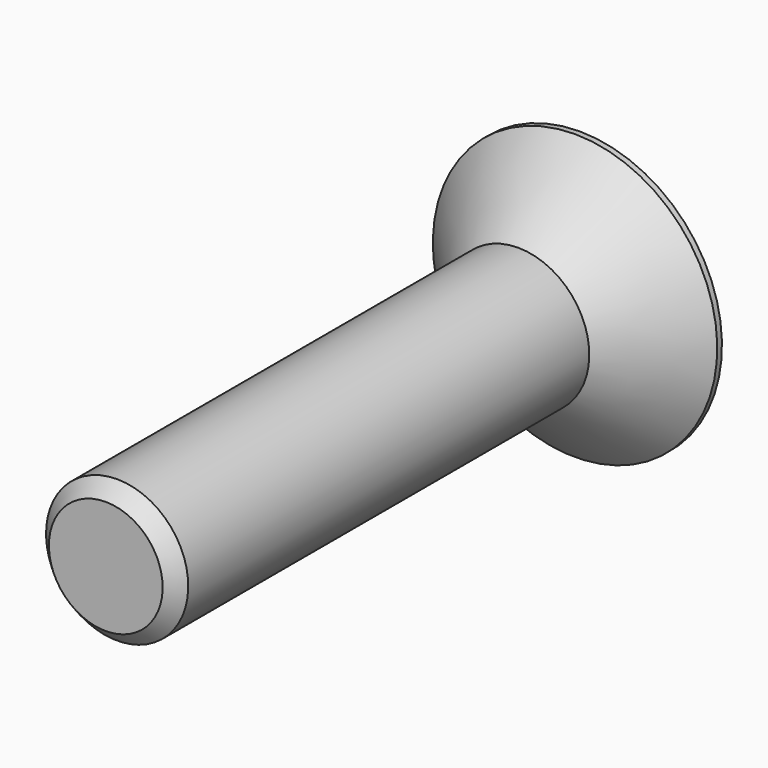
from build123d import *

# Parameters (mm, degrees)
F4_DEPTH = 4.6


with BuildPart() as f2:
    # F1 (on Right) → F2 (revolve)
    with BuildSketch(Plane.YZ):
        Polygon((-50, 0), (0, 0), (0, 12), (-0.5, 12), (-6.5, 6), (-48.8, 6), (-50, 4.8), align=None)
    revolve(axis=Axis((0, -25, 0), (0, 1, 0)))

    # F3 (on face) → F4 (cut)
    with BuildSketch(Plane(origin=(0, 0, 0), x_dir=(-1, 0, 0), z_dir=(0, 1, 0))):
        Polygon((4, 2.3094010768), (0, 4.6188021535), (-4, 2.3094010768), (-4, -2.3094010768), (0, -4.6188021535), (4, -2.3094010768), align=None)
    extrude(amount=-F4_DEPTH, mode=Mode.SUBTRACT)


solid = f2.part
